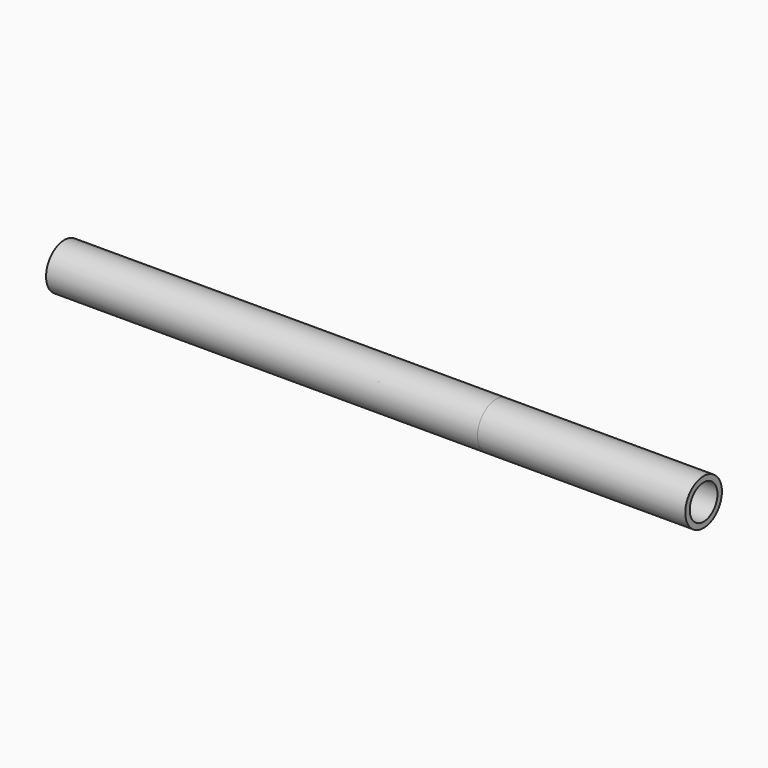
from build123d import *

# Parameters (mm, degrees)
F1_START = 20
F0_R     = 16.8
F0_R_2   = 12.7
F1_DEPTH = 468.95
F2_START = 20
F2_DEPTH = 316.55


with BuildPart() as f1:
    # F0 (on Right) → F1 (new body)
    with BuildSketch(Plane.YZ.offset(F1_START)):
        Circle(F0_R)
        Circle(F0_R_2, mode=Mode.SUBTRACT)
    extrude(amount=F1_DEPTH)


with BuildPart() as f2:
    # F0 (on Right) → F2 (new body)
    with BuildSketch(Plane.YZ.offset(F2_START)):
        Circle(F0_R)
        Circle(F0_R_2, mode=Mode.SUBTRACT)
    extrude(amount=F2_DEPTH)


solid = Compound([f1.part, f2.part])
